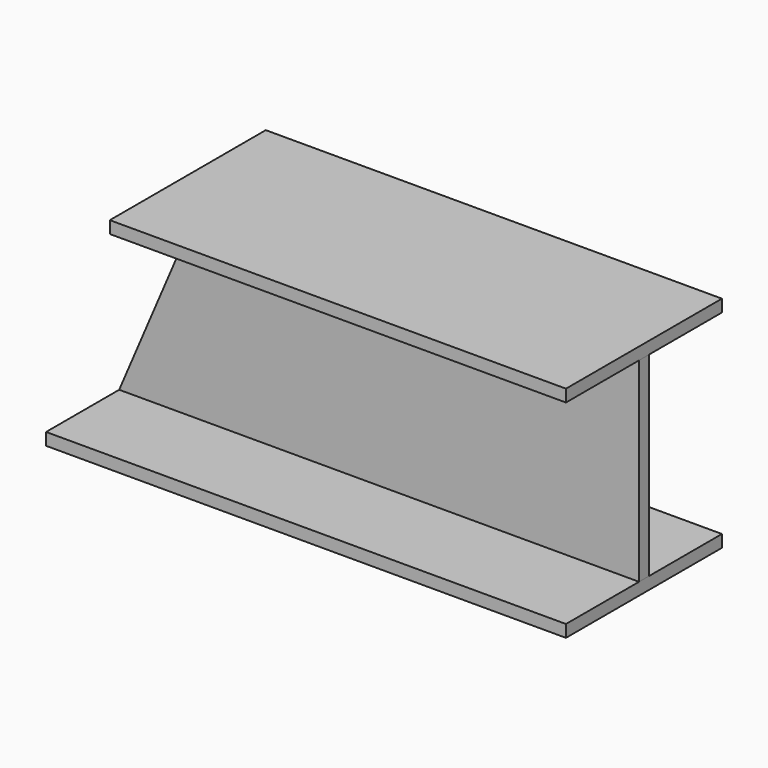
from build123d import *

# Parameters (mm, degrees)
F0_W     = 203.2
F0_H     = 76.2
F1_DEPTH = 4.7752
F2_W     = 76.2
F2_H     = 4.7752
F3_DEPTH = 203.2
F4_W     = 24.907966
F4_H     = 4.7752
F5_DEPTH = 80.264


with BuildPart() as f1:
    # F0 (on Front) → F1 (new body)
    with BuildSketch(Plane.XZ):
        with Locations((101.6, 38.1)):
            Rectangle(F0_W, F0_H)
    extrude(amount=F1_DEPTH)


with BuildPart() as f3:
    # F2 (on Right) → F3 (new body)
    with BuildSketch(Plane.YZ):
        with Locations((-2.3876, 78.5876)):
            Rectangle(F2_W, F2_H)
        with Locations((-2.3876, -2.3876)):
            Rectangle(F2_W, F2_H)
    extrude(amount=F3_DEPTH)


with BuildPart() as f5_tool:
    # F4 (on face) → F5 (new body)
    with BuildSketch(Plane.XZ.offset(40.4876)):
        Polygon((0, 76.2), (0, 0), (24.907966, 58.410985), (24.907966, 76.2), align=None)
        with Locations((12.453983, 78.5876)):
            Rectangle(F4_W, F4_H)
    extrude(amount=-F5_DEPTH)


with BuildPart() as f1_1:
    add(f1.part)

    # F5: cut by f5_tool
    add(f5_tool.part, mode=Mode.SUBTRACT)


with BuildPart() as f3_1:
    add(f3.part)

    # F5: cut by f5_tool
    add(f5_tool.part, mode=Mode.SUBTRACT)


solid = Compound([f1_1.part, f3_1.part])
